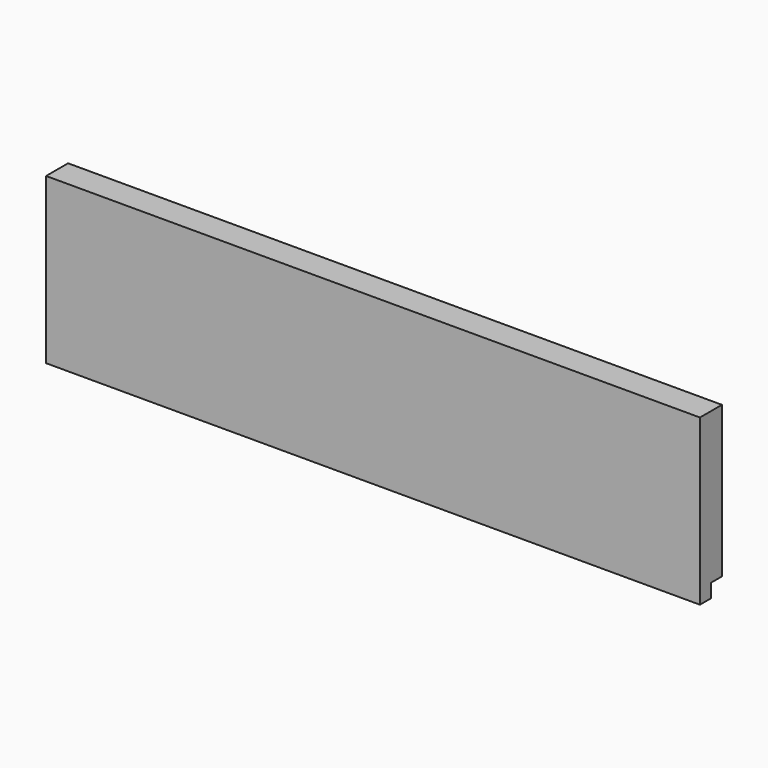
from build123d import *

# Parameters (mm, degrees)
F0_W     = 476
F0_H     = 10
F1_DEPTH = 10
F0_H_2   = 110
F2_DEPTH = 10


with BuildPart() as f1:
    # F0 (on Front) → F1 (new body)
    with BuildSketch(Plane.XZ):
        with Locations((0, -55)):
            Rectangle(F0_W, F0_H)
    extrude(amount=F1_DEPTH)

    # F0 (on Front) → F2 (join, symmetric)
    with BuildSketch(Plane.XZ):
        with Locations((0, 5)):
            Rectangle(F0_W, F0_H_2)
    extrude(amount=F2_DEPTH, both=True)


solid = f1.part
